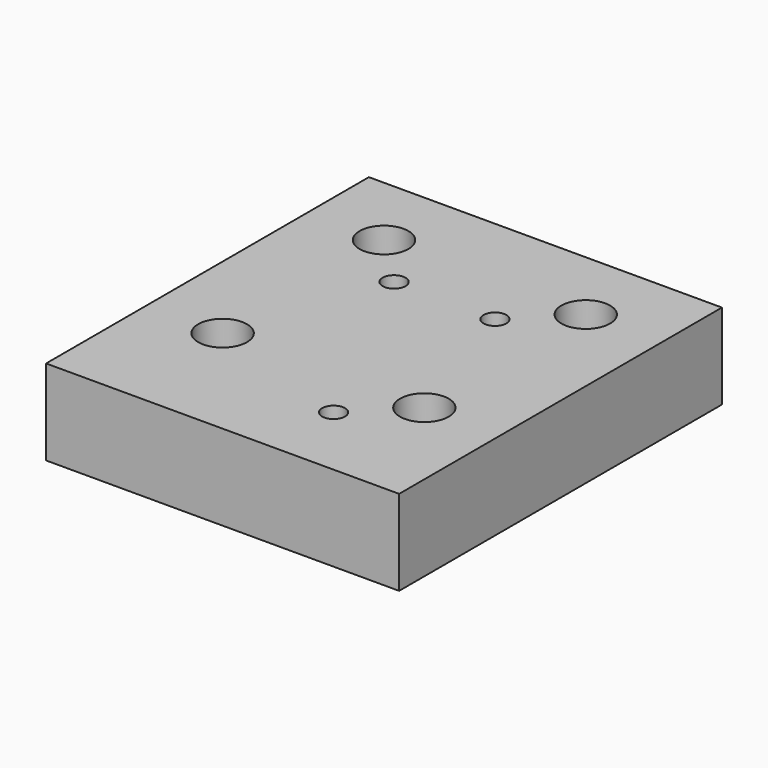
from build123d import *

# Parameters (mm, degrees)
F0_W           = 105
F0_H           = 120
F1_DEPTH       = 25.4
F3_D           = 8.26
F3_CBORE_D     = 14.5
F3_CBORE_DEPTH = 9.53
F5_D           = 6.8


with BuildPart() as f1:
    # F0 (on Top) → F1 (new body)
    with BuildSketch(Plane.XY):
        Rectangle(F0_W, F0_H)
    extrude(amount=F1_DEPTH)

    # F3 (through all)
    with Locations(Plane.XY.offset(25.4)):
        with Locations((-30, 37.5), (30, 37.5), (30, -22.5), (-30, -22.5)):
            CounterBoreHole(F3_D / 2, F3_CBORE_D / 2, F3_CBORE_DEPTH)

    # F5 (through all)
    with Locations(Plane.XY.offset(25.4)):
        with Locations((15, -37.5), (15, 22.5), (-15, 22.5)):
            Hole(F5_D / 2)


solid = f1.part
